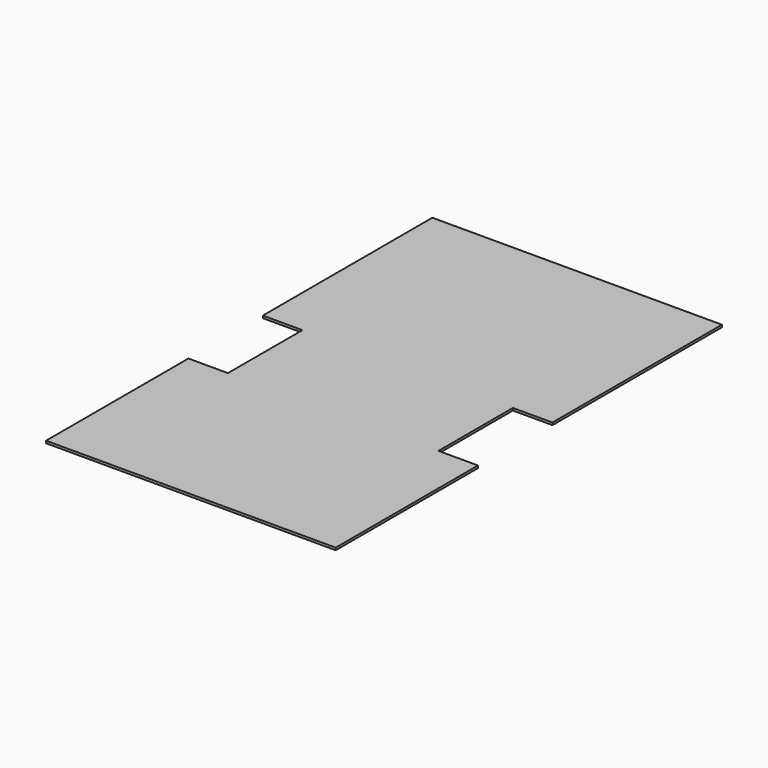
from build123d import *

# Parameters (mm, degrees)
F0_W     = 1704
F0_H     = 753
F1_DEPTH = 19


with BuildPart() as f1:
    # F0 (on Top) → F1 (new body)
    with BuildSketch(Plane.XY):
        Polygon((-1172, 330.666667), (-852, 330.666667), (852, 330.666667), (1172, 330.666667), (1172, 2045.666667), (-1172, 2045.666667), align=None)
        with Locations((0, -45.833333)):
            Rectangle(F0_W, F0_H)
        Polygon((-852, -422.333333), (-1172, -422.333333), (-1172, -1862.333333), (1172, -1862.333333), (1172, -422.333333), (852, -422.333333), align=None)
    extrude(amount=F1_DEPTH)


solid = f1.part
